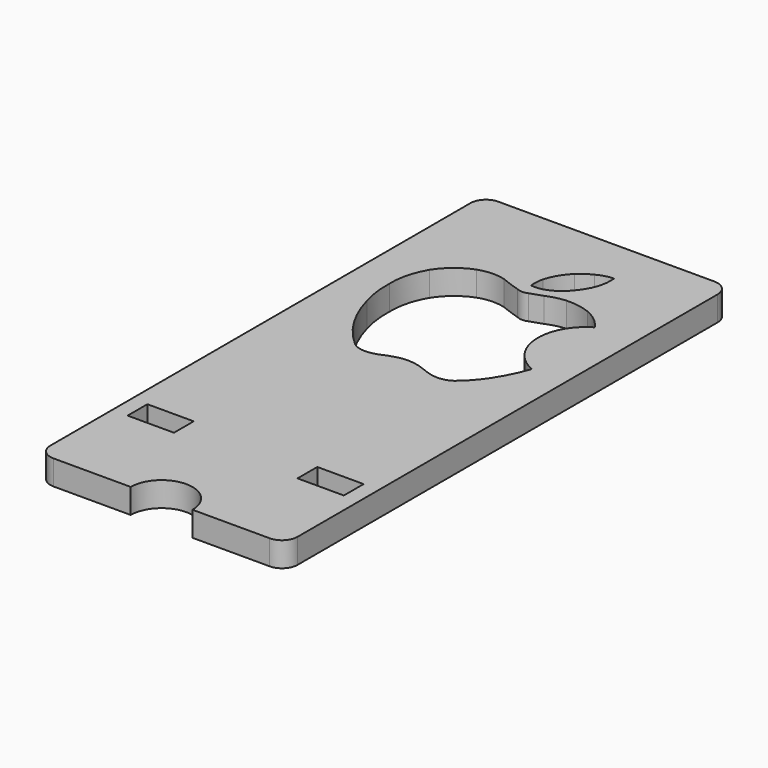
from build123d import *

# Parameters (mm, degrees)
F0_W     = 15
F0_H     = 8
F1_DEPTH = 8


with BuildPart() as f1:
    # F0 (on Top) → F1 (new body)
    with BuildSketch(Plane.XY):
        with BuildLine():
            Line((35, 90), (-35, 90))
            ThreePointArc((-35, 90), (-38.535534, 88.535534), (-40, 85))
            Line((-40, 85), (-40, -85))
            ThreePointArc((-40, -85), (-38.535534, -88.535534), (-35, -90))
            Line((-35, -90), (-10, -90))
            ThreePointArc((-10, -90), (0, -80), (10, -90))
            Line((10, -90), (35, -90))
            ThreePointArc((35, -90), (38.535534, -88.535534), (40, -85))
            Line((40, -85), (40, 85))
            ThreePointArc((40, 85), (38.535534, 88.535534), (35, 90))
        make_face()
        with Locations((-27.5, -56)):
            Rectangle(F0_W, F0_H, mode=Mode.SUBTRACT)
        with Locations((27.5, -56)):
            Rectangle(F0_W, F0_H, mode=Mode.SUBTRACT)
        with BuildLine():
            ThreePointArc((-25.263863, 50.035905), (-21.248199, 54.537215), (-16.024871, 57.554531))
            ThreePointArc((-16.024871, 57.554531), (-11.73955, 58.355979), (-7.412411, 57.824786))
            ThreePointArc((-7.412411, 57.824786), (-4.333461, 56.657266), (-1.206209, 55.626086))
            ThreePointArc((-1.206209, 55.626086), (0.532304, 55.237841), (2.270817, 55.626086))
            ThreePointArc((2.270817, 55.626086), (4.232387, 56.271409), (6.185894, 56.940745))
            ThreePointArc((6.185894, 56.940745), (9.185146, 57.975997), (12.318602, 58.474708))
            ThreePointArc((12.318602, 58.474708), (16.344444, 58.21585), (20.230889, 57.134203))
            ThreePointArc((20.230889, 57.134203), (24.03083, 54.814647), (27.014145, 51.510147))
            ThreePointArc((27.014145, 51.510147), (19.39754, 37.048347), (28.872508, 23.729888))
            ThreePointArc((28.872508, 23.729888), (26.721586, 18.523644), (23.953715, 13.617492))
            ThreePointArc((23.953715, 13.617492), (21.078874, 9.819793), (17.645785, 6.518109))
            ThreePointArc((17.645785, 6.518109), (15.624159, 5.522715), (13.403592, 5.139485))
            ThreePointArc((13.403592, 5.139485), (11.34891, 5.316623), (9.355833, 5.846472))
            ThreePointArc((9.355833, 5.846472), (7.255639, 6.665034), (5.120978, 7.388972))
            ThreePointArc((5.120978, 7.388972), (2.526786, 7.830283), (-0.104646, 7.817823))
            ThreePointArc((-0.104646, 7.817823), (-2.961809, 7.11564), (-5.716313, 6.081646))
            ThreePointArc((-5.716313, 6.081646), (-7.69726, 5.390047), (-9.773637, 5.088192))
            ThreePointArc((-9.773637, 5.088192), (-12.386956, 5.351298), (-14.690942, 6.612374))
            ThreePointArc((-14.690942, 6.612374), (-18.882856, 10.914265), (-22.349224, 15.81964))
            ThreePointArc((-22.349224, 15.81964), (-25.059935, 21.154457), (-27.020738, 26.808083))
            ThreePointArc((-27.020738, 26.808083), (-28.186358, 32.206624), (-28.448275, 37.723354))
            ThreePointArc((-28.448275, 37.723354), (-27.731572, 44.106062), (-25.263863, 50.035905))
        make_face(mode=Mode.SUBTRACT)
        with BuildLine():
            ThreePointArc((8.898433, 73.965858), (11.447708, 75.003195), (14.167834, 75.422469))
            ThreePointArc((14.167834, 75.422469), (14.204445, 73.96984), (14.167834, 72.517212))
            ThreePointArc((14.167834, 72.517212), (13.734786, 70.23514), (12.945735, 68.05047))
            ThreePointArc((12.945735, 68.05047), (11.497905, 65.553995), (9.692127, 63.302826))
            ThreePointArc((9.692127, 63.302826), (7.444453, 61.309154), (4.785833, 59.909686))
            ThreePointArc((4.785833, 59.909686), (2.503152, 59.320401), (0.145637, 59.324383))
            ThreePointArc((0.145637, 59.324383), (0.059444, 61.598708), (0.392238, 63.850205))
            ThreePointArc((0.392238, 63.850205), (2.121034, 67.770658), (4.769809, 71.138549))
            ThreePointArc((4.769809, 71.138549), (6.717839, 72.722006), (8.898433, 73.965858))
        make_face(mode=Mode.SUBTRACT)
    extrude(amount=F1_DEPTH)


solid = f1.part
